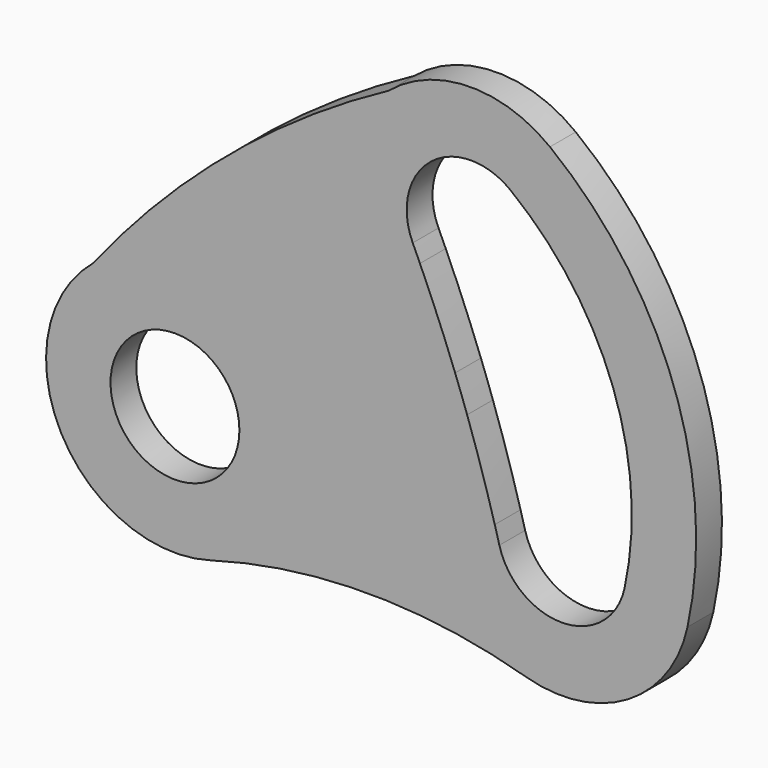
from build123d import *

# Parameters (mm, degrees)
F1_DEPTH = 6.35


with BuildPart() as f1:
    # F0 (on Front) → F1 (new body)
    with BuildSketch(Plane.XZ):
        with BuildLine():
            ThreePointArc((0, 72.4705681205), (-31.6151754834, 51.0205932538), (-58.2285185052, 23.6098158874))
            ThreePointArc((-58.2285185052, 23.6098158874), (-39.747753506, 29.3045872421), (-22.6139344783, 20.3379077418))
            Line((-22.6139344783, 20.3379077418), (-3.1564056231, 36.6647130278))
            ThreePointArc((-3.1564056231, 36.6647130278), (-9.0007564313, 55.2219634474), (0, 72.4705681205))
        make_face()
        with BuildLine():
            Line((-3.1564056231, 36.6647130278), (-22.6139344783, 20.3379077418))
            ThreePointArc((-22.6139344783, 20.3379077418), (-18.2032707655, 12.6984140962), (-16.6714633335, 4.0111024557))
            Line((-16.6714633335, 4.0111024557), (8.7285366665, 4.0111024557))
            ThreePointArc((8.7285366665, 4.0111024557), (8.7325019345, 4.4599007306), (8.7443965005, 4.908558879))
            ThreePointArc((8.7443965005, 4.908558879), (6.1125631722, 21.5486538709), (-2.5673824162, 35.9874160266))
            ThreePointArc((-2.5673824162, 35.9874160266), (-2.8648860812, 36.3234624284), (-3.1564056231, 36.6647130278))
        make_face()
        with BuildLine():
            ThreePointArc((-16.6714633335, 4.0111024557), (-21.7868505138, -11.2759666798), (-35.0726037079, -20.4056123917))
            ThreePointArc((-35.0726037079, -20.4056123917), (-3.9714633335, -16.0361449079), (27.129677041, -20.4056123917))
            ThreePointArc((27.129677041, -20.4056123917), (13.8439238468, -11.2759666798), (8.7285366665, 4.0111024557))
            Line((8.7285366665, 4.0111024557), (-16.6714633335, 4.0111024557))
        make_face()
        with BuildLine():
            ThreePointArc((58.9453417467, -1.4005687843), (56.1752899305, 39.7699962571), (31.833343639, 73.0890338128))
            ThreePointArc((31.833343639, 73.0890338128), (39.10110567, 64.1861956577), (41.7011232322, 52.9915183138))
            ThreePointArc((41.7011232322, 52.9915183138), (41.3188749847, 48.6015186275), (40.18363526, 44.3436504125))
            ThreePointArc((40.18363526, 44.3436504125), (44.2593671036, 35.4329550343), (46.8648599559, 25.9871364261))
            ThreePointArc((46.8648599559, 25.9871364261), (56.1360650551, 16.6929278064), (59.5285366665, 4.0111024557))
            ThreePointArc((59.5285366665, 4.0111024557), (59.382317067, 1.2896000248), (58.9453417467, -1.4005687843))
        make_face()
        with BuildLine():
            ThreePointArc((31.833343639, 73.0890338128), (15.8077391608, 78.3867259751), (0, 72.4705681205))
            ThreePointArc((0, 72.4705681205), (-9.0007564313, 55.2219634474), (-3.1564056231, 36.6647130278))
            Line((-3.1564056231, 36.6647130278), (6.2123223295, 44.5260091974))
            ThreePointArc((6.2123223295, 44.5260091974), (5.5055073041, 46.0788928649), (4.789482931, 47.627551724))
            ThreePointArc((4.789482931, 47.627551724), (8.3636814796, 62.9054992713), (24.0534690987, 63.0508986907))
            ThreePointArc((24.0534690987, 63.0508986907), (33.0695475347, 54.5172622309), (40.18363526, 44.3436504125))
            ThreePointArc((40.18363526, 44.3436504125), (41.3188749847, 48.6015186275), (41.7011232322, 52.9915183138))
            ThreePointArc((41.7011232322, 52.9915183138), (39.10110567, 64.1861956577), (31.833343639, 73.0890338128))
        make_face()
        with BuildLine():
            ThreePointArc((8.7285366665, 4.0111024557), (13.8439238468, -11.2759666798), (27.129677041, -20.4056123917))
            ThreePointArc((27.129677041, -20.4056123917), (47.1541927224, -17.794683114), (58.9453417467, -1.4005687843))
            ThreePointArc((58.9453417467, -1.4005687843), (59.382317067, 1.2896000248), (59.5285366665, 4.0111024557))
            ThreePointArc((59.5285366665, 4.0111024557), (56.1360650551, 16.6929278064), (46.8648599559, 25.9871364261))
            ThreePointArc((46.8648599559, 25.9871364261), (47.9546242088, 13.6208501821), (46.533223206, 1.2882818858))
            ThreePointArc((46.533223206, 1.2882818858), (34.4206876415, -8.6855367771), (21.8622173199, 0.7205995022))
            ThreePointArc((21.8622173199, 0.7205995022), (21.4152650858, 2.3671926108), (20.9585424275, 4.0111024557))
            Line((20.9585424275, 4.0111024557), (8.7285366665, 4.0111024557))
        make_face()
        with BuildLine():
            ThreePointArc((8.7443965005, 4.908558879), (8.7325019345, 4.4599007306), (8.7285366665, 4.0111024557))
            Line((8.7285366665, 4.0111024557), (20.9585424275, 4.0111024557))
            ThreePointArc((20.9585424275, 4.0111024557), (18.3704105721, 12.6927036587), (15.509855789, 21.2883916639))
            ThreePointArc((15.509855789, 21.2883916639), (10.6522338174, 13.7076587794), (8.7443965005, 4.908558879))
        make_face()
        with BuildLine():
            Line((6.2123223295, 44.5260091974), (-3.1564056231, 36.6647130278))
            ThreePointArc((-3.1564056231, 36.6647130278), (-2.8648860812, 36.3234624284), (-2.5673824162, 35.9874160266))
            ThreePointArc((-2.5673824162, 35.9874160266), (4.5500581511, 30.4732486321), (13.1440136398, 27.788489547))
            ThreePointArc((13.1440136398, 27.788489547), (9.8101239891, 36.2118977495), (6.2123223295, 44.5260091974))
        make_face()
        with BuildLine():
            ThreePointArc((13.1440136398, 27.788489547), (4.5500581511, 30.4732486321), (-2.5673824162, 35.9874160266))
            ThreePointArc((-2.5673824162, 35.9874160266), (6.1125631722, 21.5486538709), (8.7443965005, 4.908558879))
            ThreePointArc((8.7443965005, 4.908558879), (10.6522338174, 13.7076587794), (15.509855789, 21.2883916639))
            ThreePointArc((15.509855789, 21.2883916639), (14.3464977034, 24.5455609512), (13.1440136398, 27.788489547))
        make_face()
        with BuildLine():
            ThreePointArc((-22.6139344783, 20.3379077418), (-39.747753506, 29.3045872421), (-58.2285185052, 23.6098158874))
            ThreePointArc((-58.2285185052, 23.6098158874), (-64.5505117579, -7.8148174635), (-35.0726037079, -20.4056123917))
            ThreePointArc((-35.0726037079, -20.4056123917), (-21.7868505138, -11.2759666798), (-16.6714633335, 4.0111024557))
            Line((-16.6714633335, 4.0111024557), (-29.3714633335, 4.0111024557))
            ThreePointArc((-29.3714633335, 4.0111024557), (-54.0055596175, -0.3325533645), (-32.3426989059, 12.1745050987))
            Line((-32.3426989059, 12.1745050987), (-22.6139344783, 20.3379077418))
        make_face()
        with BuildLine():
            ThreePointArc((-16.6714633335, 4.0111024557), (-18.2032707655, 12.6984140962), (-22.6139344783, 20.3379077418))
            Line((-22.6139344783, 20.3379077418), (-32.3426989059, 12.1745050987))
            ThreePointArc((-32.3426989059, 12.1745050987), (-30.1373670495, 8.354758276), (-29.3714633335, 4.0111024557))
            Line((-29.3714633335, 4.0111024557), (-16.6714633335, 4.0111024557))
        make_face()
    extrude(amount=F1_DEPTH)


solid = f1.part
